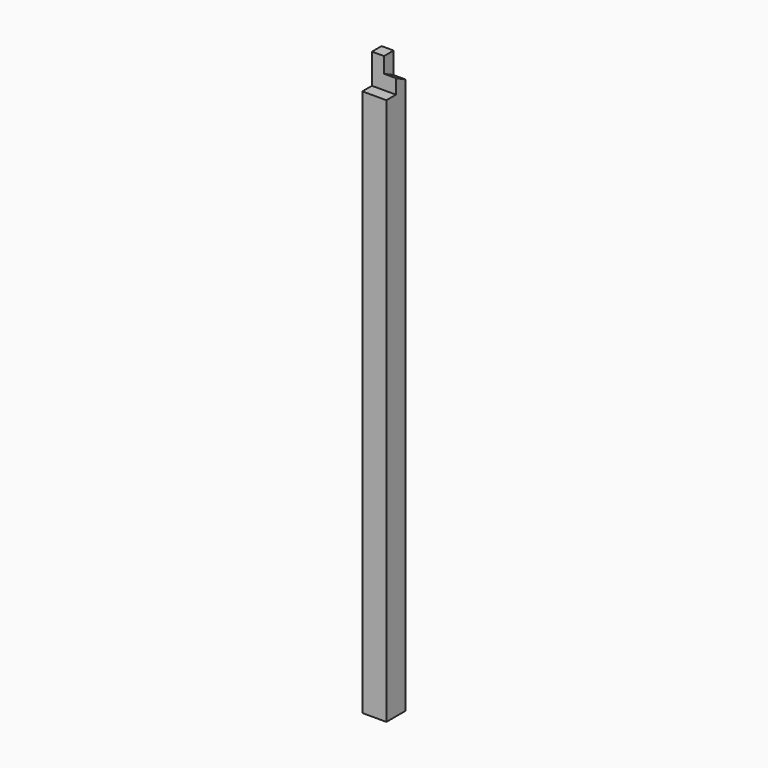
from build123d import *

# Parameters (mm, degrees)
F0_W          = 100
F0_H          = 100
F1_DEPTH      = 2400
F2_W          = 50
F2_H          = 125
F3_DEPTH      = 50
F3_DEPTH_BACK = 50
F5_DEPTH      = 50


with BuildPart() as f1:
    # F0 (on Top) → F1 (new body)
    with BuildSketch(Plane.XY):
        Rectangle(F0_W, F0_H)
    extrude(amount=F1_DEPTH)

    # F2 (on Right) → F3 (cut, two sides)
    with BuildSketch(Plane.YZ) as f3_sk:
        with Locations((-25, 2337.5)):
            Rectangle(F2_W, F2_H)
    extrude(amount=-F3_DEPTH, mode=Mode.SUBTRACT)
    extrude(f3_sk.sketch, amount=F3_DEPTH_BACK, mode=Mode.SUBTRACT)

    # F4 (on face) → F5 (cut)
    with BuildSketch(Plane.YZ.offset(50)):
        Polygon((50, 2310.246), (50, 2400), (0, 2400), (0, 2335.246), align=None)
    extrude(amount=-F5_DEPTH, mode=Mode.SUBTRACT)


solid = f1.part
